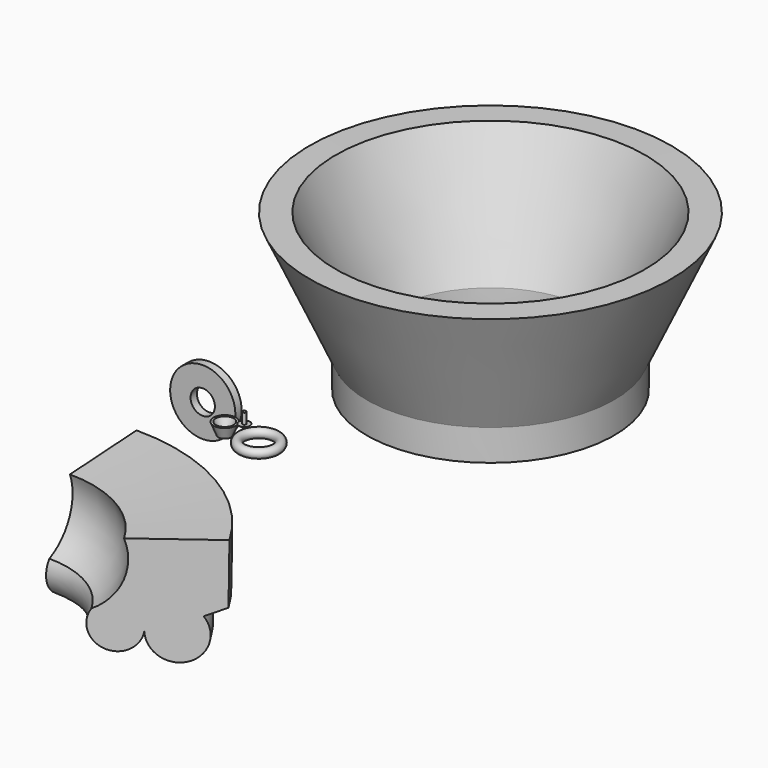
from build123d import *

# Parameters (mm, degrees)
F5_R      = 19.319606
F7_W      = 87.048978
F7_H      = 33.760227
F10_ANGLE = 60


with BuildPart() as f1:
    # F0 (on Front) → F1 (revolve)
    with BuildSketch(Plane.XZ):
        Polygon((0, 0), (0, 65.100387), (-7.823856, 64.509906), (-7.823856, 19.338211), (-23.766808, 19.338211), align=None)
    revolve(axis=Axis((0, 0, 32.550193), (0, 0, -1)))


with BuildPart() as f4:
    # F3 (on face) → F4 (revolve)
    with BuildSketch(Plane.XZ):
        Polygon((-103.895239, -44.096927), (-121.846192, 0), (-131.234109, 0), (-110.862568, -50.043158), (-83.7005, -50.043158), (-83.7005, -44.096927), align=None)
    revolve(axis=Axis((-83.7005, 0, -25.021579), (0, 0, 1)))


with BuildPart() as f6:
    # F5 (on Front) → F6 (revolve)
    with BuildSketch(Plane.XZ):
        with Locations((-12.60744, -32.033525)):
            Circle(F5_R)
    revolve(axis=Axis((61.202519, 0, -34.100204), (0, 0, -1)))


with BuildPart() as f8:
    # F7 (on Top) → F8 (revolve)
    with BuildSketch(Plane.XY):
        with Locations((-324.048266, 81.048448)):
            Rectangle(F7_W, F7_H)
    revolve(axis=Axis((-228.772119, 65.014439, 0), (0, -1, 0)))


with BuildPart() as f10:
    # F9 (on Right) → F10 (revolve)
    with BuildSketch(Plane.YZ):
        with BuildLine():
            Line((-577.293038, -25.819318), (-574.137284, 228.045387))
            Line((-574.137284, 228.045387), (-928.666055, 206.927419))
            ThreePointArc((-928.666055, 206.927419), (-930.211008, 49.795567), (-1038.184881, -64.372942))
            ThreePointArc((-1038.184881, -64.372942), (-993.980471, -211.591341), (-860.216796, -135.864422))
            ThreePointArc((-860.216796, -135.864422), (-711.139509, -237.934967), (-660.953283, -64.372942))
            Line((-660.953283, -64.372942), (-577.293038, -25.819318))
        make_face()
    revolve(axis=Axis((0, -1423.022151, -24.063915), (0, 0, -1)), revolution_arc=F10_ANGLE)


with BuildPart() as f12:
    # F11 (on face) → F12 (revolve)
    with BuildSketch(Plane(origin=(0, 0, 0), x_dir=(0, -1, 0), z_dir=(-1, 0, 0))):
        Polygon((-1968.808654, 280.21531), (-2079.636503, 279.473986), (-1836.599708, -253.225148), (-1836.599708, -385.658145), (-1309.750438, -385.658145), (-1309.750438, -328.513003), (-1742.835143, -331.409891), (-1743.518353, -229.270011), align=None)
    revolve(axis=Axis((0, 1309.750438, -50.517209), (0, 0, 1)))


solid = Compound([f1.part, f4.part, f6.part, f8.part, f10.part, f12.part])
